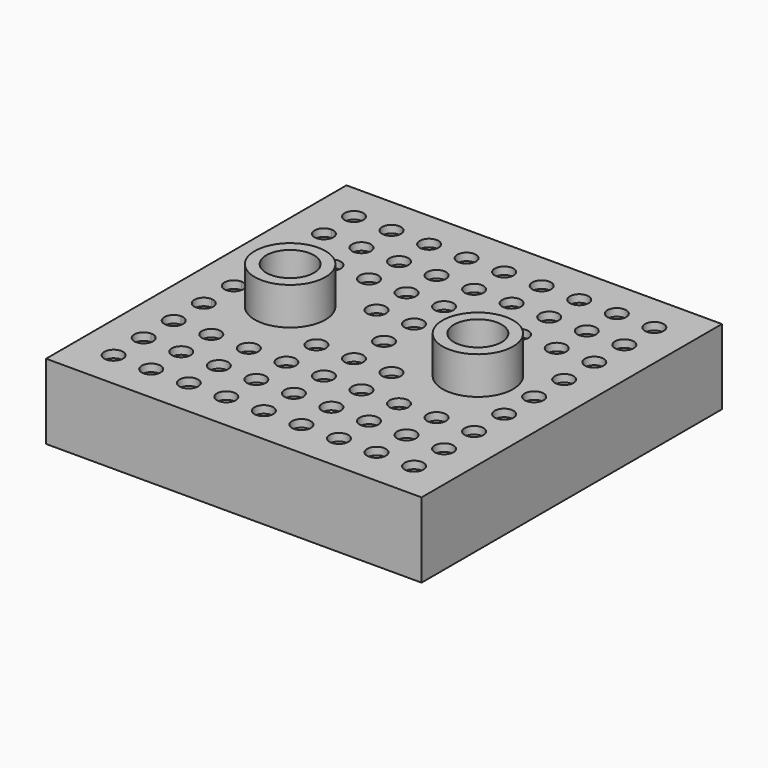
from build123d import *

# Parameters (mm, degrees)
F0_W     = 50
F0_H     = 50
F1_DEPTH = 10
F2_T     = -1
F3_R     = 3.175
F4_DEPTH = 2
F5_R     = 4.70576
F5_R_2   = 3.175
F6_DEPTH = 5
F7_R     = 1.25
F8_DEPTH = 1.5


with BuildPart() as f1:
    # F0 (on Top) → F1 (new body)
    with BuildSketch(Plane.XY):
        Rectangle(F0_W, F0_H)
    extrude(amount=F1_DEPTH)

    # F2 (hollow: no face is removed)
    offset(amount=F2_T, mode=Mode.SUBTRACT)

    # F3 (on face) → F4 (cut)
    with BuildSketch(Plane.XY.offset(10)):
        with Locations((12.5, 0)):
            Circle(F3_R)
        with Locations((-12.5, 0)):
            Circle(F3_R)
    extrude(amount=-F4_DEPTH, mode=Mode.SUBTRACT)

    # F5 (on face) → F6 (join)
    with BuildSketch(Plane.XY.offset(10)):
        with Locations((-12.5, 0)):
            Circle(F5_R)
        with Locations((-12.5, 0)):
            Circle(F5_R_2, mode=Mode.SUBTRACT)
        with Locations((12.5, 0)):
            Circle(F5_R)
        with Locations((12.5, 0)):
            Circle(F5_R_2, mode=Mode.SUBTRACT)
    extrude(amount=F6_DEPTH)

    # F7 (on face) → F8 (cut)
    with BuildSketch(Plane.XY.offset(10)):
        with BuildLine():
            ThreePointArc((-20, 18.75), (-19.1161165235, 19.1161165235), (-18.75, 20))
            ThreePointArc((-18.75, 20), (-20.8838834765, 20.8838834765), (-20, 18.75))
        make_face()
        with BuildLine():
            ThreePointArc((-18.75, -15), (-19.1161165235, -14.1161165235), (-20, -13.75))
            Line((-20, -13.75), (-20, -16.25))
            ThreePointArc((-20, -16.25), (-19.1161165235, -15.8838834765), (-18.75, -15))
        make_face()
        with BuildLine():
            Line((-20, -16.25), (-20, -13.75))
            ThreePointArc((-20, -13.75), (-21.25, -15), (-20, -16.25))
        make_face()
        with BuildLine():
            ThreePointArc((-18.75, -10), (-19.1161165235, -9.1161165235), (-20, -8.75))
            Line((-20, -8.75), (-20, -11.25))
            ThreePointArc((-20, -11.25), (-19.1161165235, -10.8838834765), (-18.75, -10))
        make_face()
        with BuildLine():
            Line((-20, -11.25), (-20, -8.75))
            ThreePointArc((-20, -8.75), (-21.25, -10), (-20, -11.25))
        make_face()
        with BuildLine():
            ThreePointArc((-18.75, -5), (-19.1161165235, -4.1161165235), (-20, -3.75))
            Line((-20, -3.75), (-20, -6.25))
            ThreePointArc((-20, -6.25), (-19.1161165235, -5.8838834765), (-18.75, -5))
        make_face()
        with BuildLine():
            Line((-20, -6.25), (-20, -3.75))
            ThreePointArc((-20, -3.75), (-21.25, -5), (-20, -6.25))
        make_face()
        with BuildLine():
            ThreePointArc((-18.75, 0), (-19.1161165235, 0.8838834765), (-20, 1.25))
            Line((-20, 1.25), (-20, -1.25))
            ThreePointArc((-20, -1.25), (-19.1161165235, -0.8838834765), (-18.75, 0))
        make_face()
        with BuildLine():
            Line((-20, -1.25), (-20, 1.25))
            ThreePointArc((-20, 1.25), (-21.25, 0), (-20, -1.25))
        make_face()
        with BuildLine():
            ThreePointArc((-18.75, 5), (-19.1161165235, 5.8838834765), (-20, 6.25))
            Line((-20, 6.25), (-20, 3.75))
            ThreePointArc((-20, 3.75), (-19.1161165235, 4.1161165235), (-18.75, 5))
        make_face()
        with BuildLine():
            Line((-20, 3.75), (-20, 6.25))
            ThreePointArc((-20, 6.25), (-21.25, 5), (-20, 3.75))
        make_face()
        with BuildLine():
            ThreePointArc((-18.75, 10), (-19.1161165235, 10.8838834765), (-20, 11.25))
            Line((-20, 11.25), (-20, 8.75))
            ThreePointArc((-20, 8.75), (-19.1161165235, 9.1161165235), (-18.75, 10))
        make_face()
        with BuildLine():
            Line((-20, 8.75), (-20, 11.25))
            ThreePointArc((-20, 11.25), (-21.25, 10), (-20, 8.75))
        make_face()
        with BuildLine():
            ThreePointArc((-18.75, 15), (-19.1161165235, 15.8838834765), (-20, 16.25))
            Line((-20, 16.25), (-20, 13.75))
            ThreePointArc((-20, 13.75), (-19.1161165235, 14.1161165235), (-18.75, 15))
        make_face()
        with BuildLine():
            Line((-20, 13.75), (-20, 16.25))
            ThreePointArc((-20, 16.25), (-21.25, 15), (-20, 13.75))
        make_face()
        with Locations((-15, 20)):
            Circle(F7_R)
        with Locations((-10, 20)):
            Circle(F7_R)
        with Locations((-5, 20)):
            Circle(F7_R)
        with Locations((0, 20)):
            Circle(F7_R)
        with Locations((5, 20)):
            Circle(F7_R)
        with Locations((10, 20)):
            Circle(F7_R)
        with Locations((15, 20)):
            Circle(F7_R)
        with Locations((20, 20)):
            Circle(F7_R)
        with Locations((-15, 15)):
            Circle(F7_R)
        with Locations((-10, 15)):
            Circle(F7_R)
        with Locations((-5, 15)):
            Circle(F7_R)
        with Locations((5, 15)):
            Circle(F7_R)
        with Locations((10, 15)):
            Circle(F7_R)
        with Locations((0, 15)):
            Circle(F7_R)
        with Locations((15, 15)):
            Circle(F7_R)
        with Locations((20, 15)):
            Circle(F7_R)
        with Locations((-15, 10)):
            Circle(F7_R)
        with Locations((-10, 10)):
            Circle(F7_R)
        with Locations((-5, 10)):
            Circle(F7_R)
        with Locations((0, 10)):
            Circle(F7_R)
        with Locations((10, 10)):
            Circle(F7_R)
        with Locations((15, 10)):
            Circle(F7_R)
        with Locations((5, 10)):
            Circle(F7_R)
        with Locations((20, 10)):
            Circle(F7_R)
        with Locations((-5, 5)):
            Circle(F7_R)
        with Locations((0, 5)):
            Circle(F7_R)
        with Locations((5, 5)):
            Circle(F7_R)
        with Locations((20, 5)):
            Circle(F7_R)
        Circle(F7_R)
        with Locations((20, 0)):
            Circle(F7_R)
        with Locations((-15, -15)):
            Circle(F7_R)
        with Locations((-10, -15)):
            Circle(F7_R)
        with Locations((-5, -15)):
            Circle(F7_R)
        with Locations((0, -15)):
            Circle(F7_R)
        with Locations((5, -15)):
            Circle(F7_R)
        with Locations((10, -15)):
            Circle(F7_R)
        with Locations((15, -15)):
            Circle(F7_R)
        with Locations((20, -15)):
            Circle(F7_R)
        with Locations((-20, -20)):
            Circle(F7_R)
        with Locations((-15, -20)):
            Circle(F7_R)
        with Locations((-10, -20)):
            Circle(F7_R)
        with Locations((-5, -20)):
            Circle(F7_R)
        with Locations((0, -20)):
            Circle(F7_R)
        with Locations((5, -20)):
            Circle(F7_R)
        with Locations((10, -20)):
            Circle(F7_R)
        with Locations((15, -20)):
            Circle(F7_R)
        with Locations((20, -20)):
            Circle(F7_R)
        with Locations((-15, -10)):
            Circle(F7_R)
        with Locations((-10, -10)):
            Circle(F7_R)
        with Locations((-5, -10)):
            Circle(F7_R)
        with Locations((0, -10)):
            Circle(F7_R)
        with Locations((5, -10)):
            Circle(F7_R)
        with Locations((10, -10)):
            Circle(F7_R)
        with Locations((15, -10)):
            Circle(F7_R)
        with Locations((20, -10)):
            Circle(F7_R)
        with Locations((-5, -5)):
            Circle(F7_R)
        with Locations((0, -5)):
            Circle(F7_R)
        with Locations((5, -5)):
            Circle(F7_R)
        with Locations((20, -5)):
            Circle(F7_R)
    extrude(amount=-F8_DEPTH, mode=Mode.SUBTRACT)


solid = f1.part
